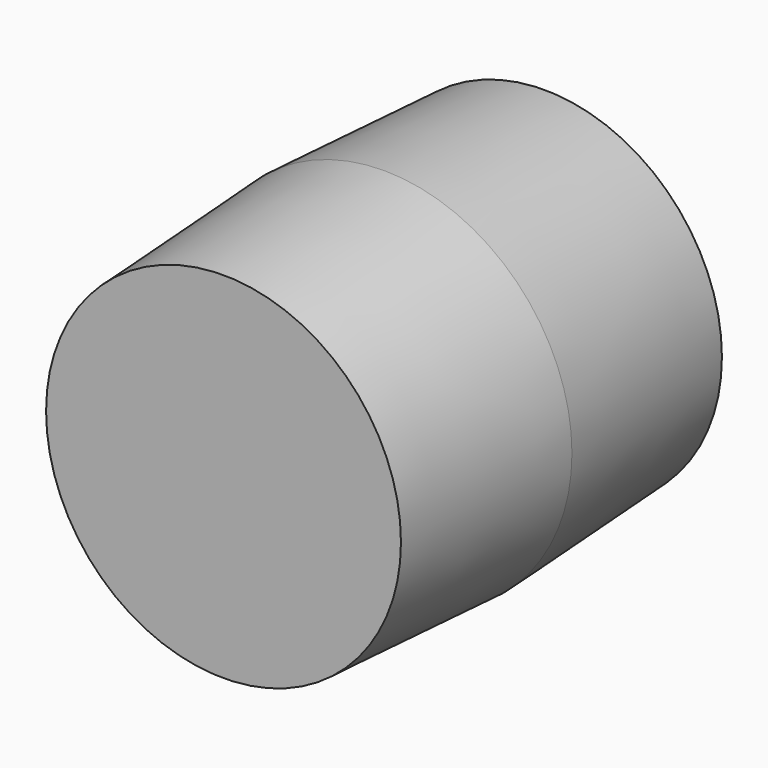
from build123d import *

# Parameters (mm, degrees)
F0_R     = 25.7636891494
F1_DEPTH = 27.4965995923
F1_TAPER = 3


with BuildPart() as f1:
    # F0 (on Front) → F1 (new body, symmetric)
    with BuildSketch(Plane.XZ):
        with Locations((0, 12.7899199724)):
            Circle(F0_R)
    extrude(amount=F1_DEPTH, both=True, taper=F1_TAPER)


solid = f1.part
